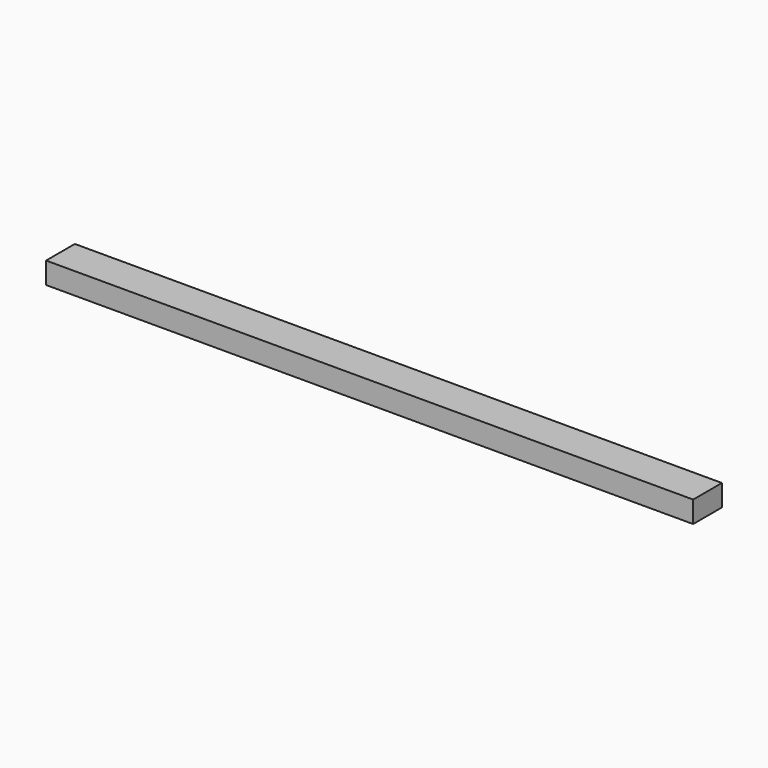
from build123d import *

# Parameters (mm, degrees)
F0_W     = 571.5
F0_H     = 19.05
F1_DEPTH = 31.75


with BuildPart() as f1:
    # F0 (on Front) → F1 (new body)
    with BuildSketch(Plane.XZ):
        with Locations((285.75, 9.525)):
            Rectangle(F0_W, F0_H)
    extrude(amount=-F1_DEPTH)


with BuildPart() as f2_1:
    # F2: copy of F1
    add(f1.part)


solid = f1.part
